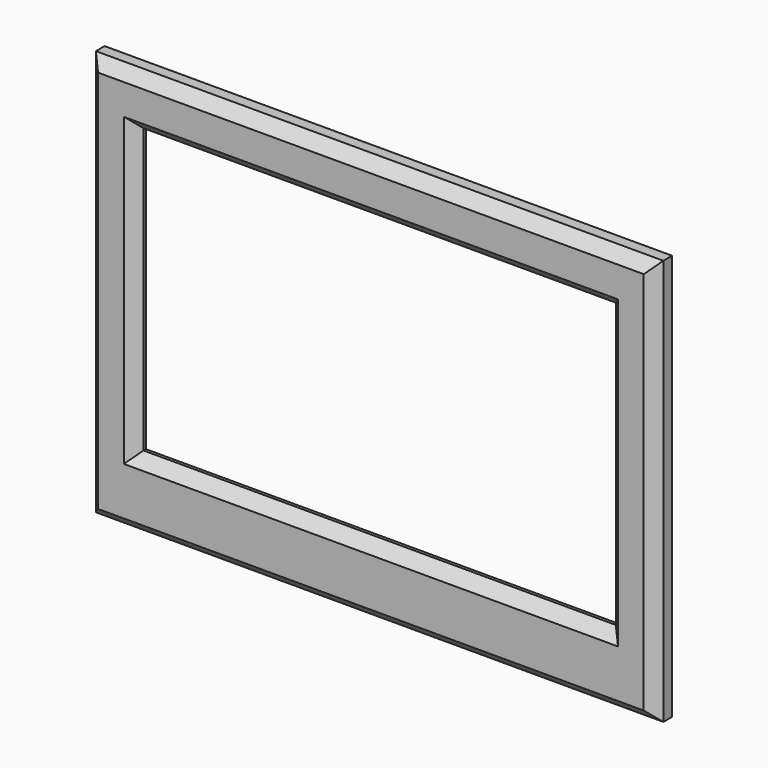
from build123d import *

# Parameters (mm, degrees)
F0_W     = 130
F0_H     = 93
F3_DEPTH = 5
F1_W     = 126
F1_H     = 89
F4_DEPTH = 1.8
F2_W     = 108.2
F2_H     = 65
F5_DEPTH = 25
F6_SIZE  = 2.5


with BuildPart() as f3:
    # F0 (on Front) → F3 (new body)
    with BuildSketch(Plane.XZ):
        with Locations((-5.6, -8.7)):
            Rectangle(F0_W, F0_H)
    extrude(amount=F3_DEPTH)

    # F1 (on face) → F4 (cut)
    with BuildSketch(Plane.XZ):
        with Locations((-5.6, -8.7)):
            Rectangle(F1_W, F1_H)
    extrude(amount=F4_DEPTH, mode=Mode.SUBTRACT)

    # F2 (on face) → F5 (cut)
    with BuildSketch(Plane.XZ):
        with Locations((-5.6, -6.7)):
            Rectangle(F2_W, F2_H)
    extrude(amount=F5_DEPTH, mode=Mode.SUBTRACT)

    # F6
    f6_edges = [f3.edges().sort_by_distance(p)[0] for p in [
        (-5.6, -5, 25.8),
        (-59.7, -5, -6.7),
        (48.5, -5, -6.7),
        (-5.6, -5, -39.2),
        (-70.6, -5, -8.7),
        (-5.6, -5, -55.2),
        (-5.6, -5, 37.8),
        (59.4, -5, -8.7),
    ]]
    chamfer(f6_edges, length=F6_SIZE)


solid = f3.part
